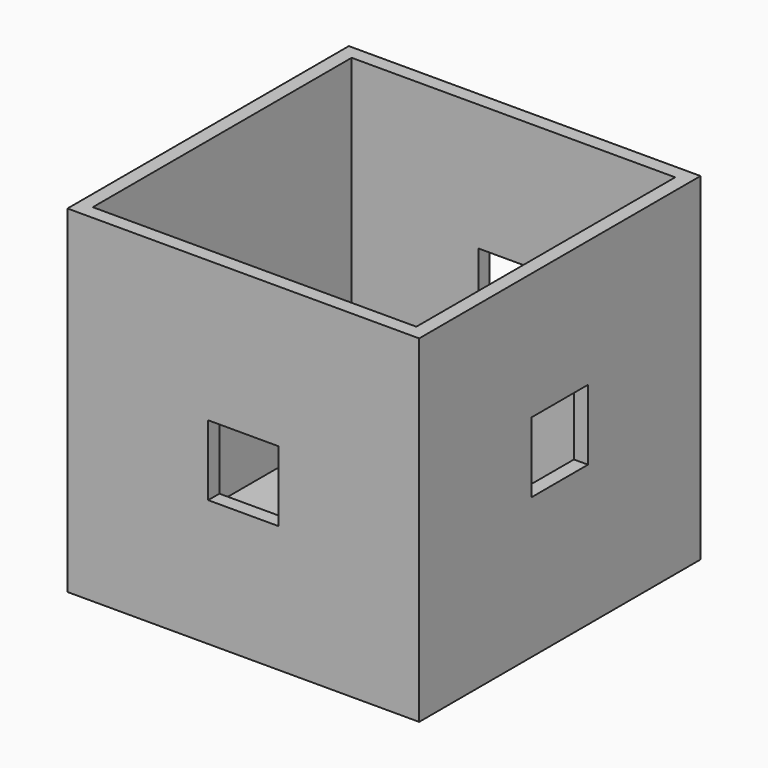
from build123d import *

# Parameters (mm, degrees)
F0_W      = 50
F0_H      = 50
F1_DEPTH  = 48
F2_T      = -2
F4_W      = 10
F4_H      = 10
F5_DEPTH  = 2
F6_W      = 10
F6_H      = 10
F7_DEPTH  = 2
F9_W      = 10
F9_H      = 10
F10_DEPTH = 2
F8_W      = 10
F8_H      = 10
F11_DEPTH = 2


with BuildPart() as f1:
    # F0 (on Top) → F1 (new body)
    with BuildSketch(Plane.XY):
        with Locations((-3.935105, -0.798085)):
            Rectangle(F0_W, F0_H)
    extrude(amount=F1_DEPTH)

    # F2
    f2_openings = [f1.faces().sort_by_distance(p)[0] for p in [
        (-3.935105, -0.798085, 48),
    ]]
    offset(amount=F2_T, openings=f2_openings)

    # F4 (on face) → F5 (cut)
    with BuildSketch(Plane.XZ.offset(25.798085)):
        with Locations((-3.935105, 23)):
            Rectangle(F4_W, F4_H)
    extrude(amount=-F5_DEPTH, mode=Mode.SUBTRACT)

    # F6 (on face) → F7 (cut)
    with BuildSketch(Plane.YZ.offset(21.064895)):
        with Locations((-0.798085, 25)):
            Rectangle(F6_W, F6_H)
    extrude(amount=-F7_DEPTH, mode=Mode.SUBTRACT)

    # F9 (on face) → F10 (cut)
    with BuildSketch(Plane(origin=(-28.935105, 0, 0), x_dir=(0, -1, 0), z_dir=(-1, 0, 0))):
        with Locations((0.798085, 23)):
            Rectangle(F9_W, F9_H)
        with Locations((0.798085, 23)):
            Rectangle(F9_W, F9_H)
    extrude(amount=-F10_DEPTH, mode=Mode.SUBTRACT)

    # F8 (on face) → F11 (cut)
    with BuildSketch(Plane(origin=(0, 24.201915, 0), x_dir=(-1, 0, 0), z_dir=(0, 1, 0))):
        with Locations((3.935105, 25)):
            Rectangle(F8_W, F8_H)
    extrude(amount=-F11_DEPTH, mode=Mode.SUBTRACT)


solid = f1.part
